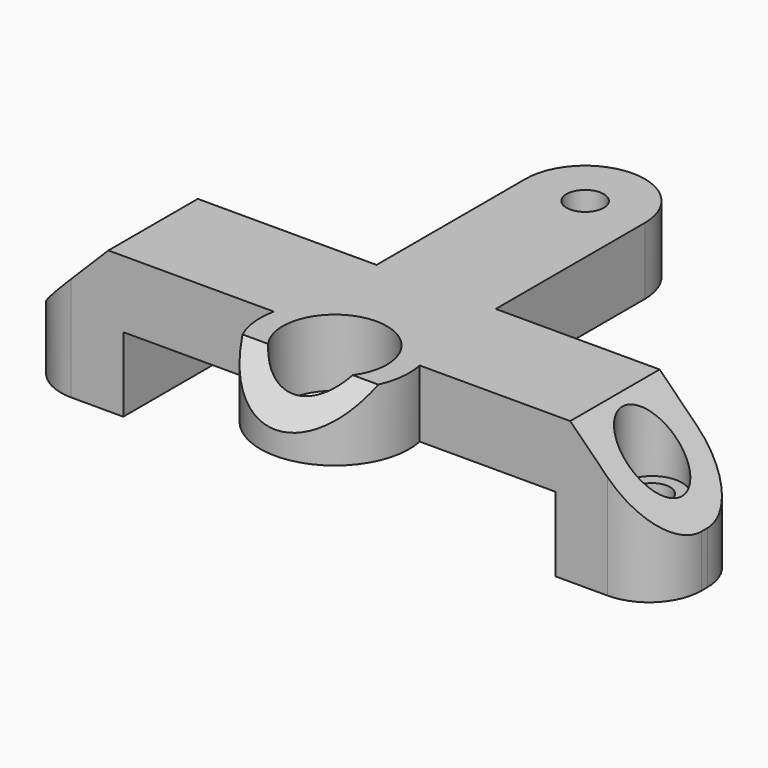
from build123d import *

# Parameters (mm, degrees)
BOX548_W               = 15
BOX548_H               = 13
BOX548_DEPTH           = 4.5
BOX548_ROLL_ANGLE      = 45
CYLINDER061_R          = 1.2
CYLINDER061_DEPTH      = 20
CYLINDER064_R          = 2
CYLINDER064_DEPTH      = 5
CYLINDER063_R          = 2
CYLINDER063_DEPTH      = 5
CYLINDER060_R          = 1.2
CYLINDER060_DEPTH      = 20
CYLINDER059_R          = 1.25
CYLINDER059_DEPTH      = 4.5
CYLINDER052_R          = 3.5
CYLINDER052_DEPTH      = 4.5
BOX043_W               = 7
BOX043_H               = 7.5
BOX043_DEPTH           = 5
BOX044_W               = 7
BOX044_H               = 7.5
BOX044_DEPTH           = 5
BOX041_W               = 8
BOX041_H               = 25
BOX041_DEPTH           = 4.5
CYLINDER053_R          = 5
CYLINDER053_DEPTH      = 4.5
FILLET011_R            = 3.99
BOX042_W               = 43
BOX042_H               = 7.5
BOX042_DEPTH           = 4.5
CHAMFER003_SIZE        = 6
FILLET012_R            = 3.5
CUT073_PLACEMENT_ANGLE = 180


with BuildPart() as cube739:
    # Box548 → Box548 (new body)
    with BuildSketch(Plane.XY):
        with Locations((7.5, 6.5)):
            Rectangle(BOX548_W, BOX548_H)
    extrude(amount=BOX548_DEPTH)


with BuildPart() as cube739_1:
    # Box548 roll: moved
    add(cube739.part.rotate(Axis((0, 0, 0), (1, 0, 0)), BOX548_ROLL_ANGLE))


with BuildPart() as cube739_2:
    # Box548 placement: moved
    add(cube739_1.part.moved(Location((90, 10, -34.25))))


with BuildPart() as cylinder061:
    # Cylinder061 → Cylinder061 (new body)
    with BuildSketch(Plane(origin=(-18.5, -4.75, -9.7), x_dir=(1, 0, 0), z_dir=(0, 0, 1))):
        Circle(CYLINDER061_R)
    extrude(amount=CYLINDER061_DEPTH)


with BuildPart() as fusion040:
    # Cylinder064 → Cylinder064 (new body)
    with BuildSketch(Plane(origin=(-18.5, -4.75, -9.2), x_dir=(1, 0, 0), z_dir=(0, 0, 1))):
        Circle(CYLINDER064_R)
    extrude(amount=CYLINDER064_DEPTH)

    # Fusion040: union Cylinder061
    add(cylinder061.part)


with BuildPart() as cylinder063:
    # Cylinder063 → Cylinder063 (new body)
    with BuildSketch(Plane(origin=(17.5, -4.75, -9.2), x_dir=(1, 0, 0), z_dir=(0, 0, 1))):
        Circle(CYLINDER063_R)
    extrude(amount=CYLINDER063_DEPTH)


with BuildPart() as fusion041:
    # Cylinder060 → Cylinder060 (new body)
    with BuildSketch(Plane(origin=(17.5, -4.75, -9.7), x_dir=(1, 0, 0), z_dir=(0, 0, 1))):
        Circle(CYLINDER060_R)
    extrude(amount=CYLINDER060_DEPTH)

    # Fusion039: union Cylinder063
    add(cylinder063.part)

    # Fusion041: union Fusion040
    add(fusion040.part)


with BuildPart() as cylinder059:
    # Cylinder059 → Cylinder059 (new body)
    with BuildSketch(Plane(origin=(0, -21, -9.2), x_dir=(1, 0, 0), z_dir=(0, 0, 1))):
        Circle(CYLINDER059_R)
    extrude(amount=CYLINDER059_DEPTH)


with BuildPart() as cylinder052:
    # Cylinder052 → Cylinder052 (new body)
    with BuildSketch(Plane.XY.offset(-9.2)):
        Circle(CYLINDER052_R)
    extrude(amount=CYLINDER052_DEPTH)


with BuildPart() as cube003:
    # Box043 → Box043 (new body)
    with BuildSketch(Plane(origin=(-22, -8.5, -4.7), x_dir=(1, 0, 0), z_dir=(0, 0, 1))):
        with Locations((3.5, 3.75)):
            Rectangle(BOX043_W, BOX043_H)
    extrude(amount=BOX043_DEPTH)


with BuildPart() as cube004:
    # Box044 → Box044 (new body)
    with BuildSketch(Plane(origin=(14, -8.5, -4.7), x_dir=(1, 0, 0), z_dir=(0, 0, 1))):
        with Locations((3.5, 3.75)):
            Rectangle(BOX044_W, BOX044_H)
    extrude(amount=BOX044_DEPTH)


with BuildPart() as cube001:
    # Box041 → Box041 (new body)
    with BuildSketch(Plane(origin=(-4, -25, -9.2), x_dir=(1, 0, 0), z_dir=(0, 0, 1))):
        with Locations((4, 12.5)):
            Rectangle(BOX041_W, BOX041_H)
    extrude(amount=BOX041_DEPTH)


with BuildPart() as fillet011:
    # Cylinder053 → Cylinder053 (new body)
    with BuildSketch(Plane.XY.offset(-9.2)):
        Circle(CYLINDER053_R)
    extrude(amount=CYLINDER053_DEPTH)

    # Fusion034: union Cube001
    add(cube001.part)

    # Fillet011
    fillet011_edges = [fillet011.edges().sort_by_distance(p)[0] for p in [
        (4, -25, -6.95),
        (-4, -25, -6.95),
    ]]
    fillet(fillet011_edges, radius=FILLET011_R)


with BuildPart() as obj1:
    # Box042 → Box042 (new body)
    with BuildSketch(Plane(origin=(-22, -8.5, -9.2), x_dir=(1, 0, 0), z_dir=(0, 0, 1))):
        with Locations((21.5, 3.75)):
            Rectangle(BOX042_W, BOX042_H)
    extrude(amount=BOX042_DEPTH)

    # Fusion036: union Cube003, Cube004, Fillet011
    add(cube003.part)
    add(cube004.part)
    add(fillet011.part)

    # Cut066: cut Cylinder052
    add(cylinder052.part, mode=Mode.SUBTRACT)

    # Chamfer003
    chamfer003_edges = [obj1.edges().sort_by_distance(p)[0] for p in [
        (21, -4.75, -9.2),
        (-22, -4.75, -9.2),
    ]]
    chamfer(chamfer003_edges, length=CHAMFER003_SIZE)

    # Fillet012
    fillet012_edges = [obj1.edges().sort_by_distance(p)[0] for p in [
        (-22, -8.5, -1.45),
        (-22, -1, -1.45),
        (21, -1, -1.45),
        (21, -8.5, -1.45),
    ]]
    fillet(fillet012_edges, radius=FILLET012_R)

    # Cut067: cut Cylinder059
    add(cylinder059.part, mode=Mode.SUBTRACT)

    # Cut073: cut Fusion041
    add(fusion041.part, mode=Mode.SUBTRACT)


with BuildPart() as obj1_1:
    # Cut073 placement: moved
    add(obj1.part.moved(Location((98, 16.5, -39))).rotate(Axis((98, 16.5, -39), (1, 0, 0)), CUT073_PLACEMENT_ANGLE))

    # Cut670: cut Cube739
    add(cube739_2.part, mode=Mode.SUBTRACT)


solid = obj1_1.part
